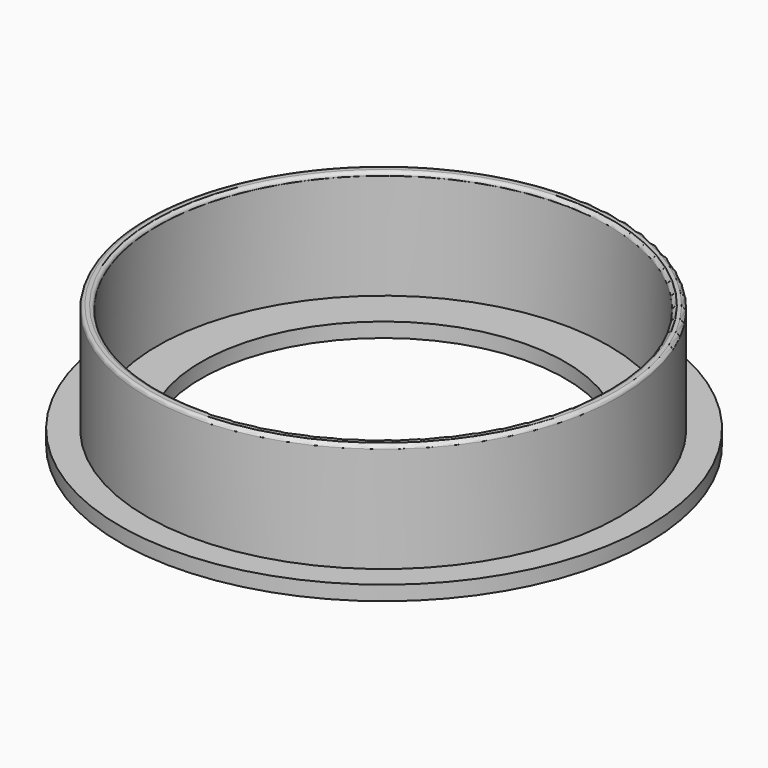
from build123d import *

# Parameters (mm, degrees)
F0_R     = 36.25
F0_R_2   = 25
F1_DEPTH = 2
F2_R     = 30
F2_R_2   = 32.5
F2_R_3   = 31
F3_DEPTH = 15
F4_R     = 0.5


with BuildPart() as f1:
    # F0 (on Top) → F1 (new body)
    with BuildSketch(Plane.XY):
        with Locations((0, 0.15434)):
            Circle(F0_R)
        Circle(F0_R_2, mode=Mode.SUBTRACT)
    extrude(amount=F1_DEPTH)

    # F2 (on face) → F3 (join)
    with BuildSketch(Plane.XY.offset(2)):
        Circle(F2_R)
        Circle(F2_R_2)
        Circle(F2_R_3, mode=Mode.SUBTRACT)
    extrude(amount=F3_DEPTH)

    # F4
    f4_edges = [f1.edges().sort_by_distance(p)[0] for p in [
        (-32.5, 0, 17),
        (-31, 0, 17),
    ]]
    fillet(f4_edges, radius=F4_R)


solid = f1.part
